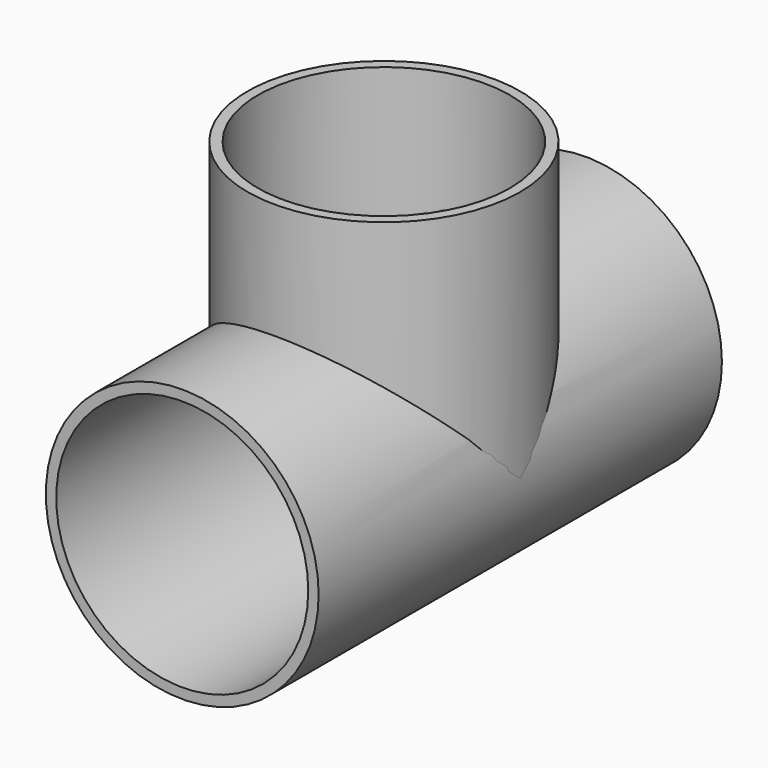
from build123d import *

# Parameters (mm, degrees)
F0_R          = 12.0269
F0_R_2        = 11.1125
F2_DEPTH      = 22.225
F2_DEPTH_BACK = 22.225
F1_R          = 12.0269
F1_R_2        = 11.1125
F3_DEPTH      = 22.225
F4_D          = 22.225
F4_DEPTH      = 12.0279
F5_D          = 22.225
F5_DEPTH      = 12.7
F5_TIP        = 6.6770636289
F6_D          = 22.225


with BuildPart() as f2:
    # F0 (on Front) → F2 (new body, two sides)
    with BuildSketch(Plane.XZ) as f2_sk:
        Circle(F0_R)
        Circle(F0_R_2, mode=Mode.SUBTRACT)
    extrude(amount=F2_DEPTH)
    extrude(f2_sk.sketch, amount=-F2_DEPTH_BACK)

    # F4 (through all, one way)
    with BuildSketch(Plane(origin=(0, 0, 0), x_dir=(1, 0, 0), z_dir=(0, 0, -1))):
        with Locations((0, 0)):
            Circle(F4_D / 2)
    extrude(amount=-F4_DEPTH, mode=Mode.SUBTRACT)


with BuildPart() as f3:
    # F1 (on Top) → F3 (new body)
    with BuildSketch(Plane.XY):
        Circle(F1_R)
        Circle(F1_R_2, mode=Mode.SUBTRACT)
    extrude(amount=F3_DEPTH)

    # F5 (one way)
    with BuildSketch(Plane.XZ):
        with Locations((0, 0)):
            Circle(F5_D / 2)
    extrude(amount=-F5_DEPTH, mode=Mode.SUBTRACT)
    with Locations(Plane.XZ):
        with Locations((0, 0)):
            with Locations((0, 0, -(F5_DEPTH + F5_TIP / 2))):  # 118° drill point
                Cone(0, F5_D / 2, F5_TIP, mode=Mode.SUBTRACT)

    # F6 (through all)
    with Locations(Plane(origin=(0, 0, 0), x_dir=(1, 0, 0), z_dir=(0, 1, 0))):
        with Locations((0, 0)):
            Hole(F6_D / 2)


solid = Compound([f2.part, f3.part])
